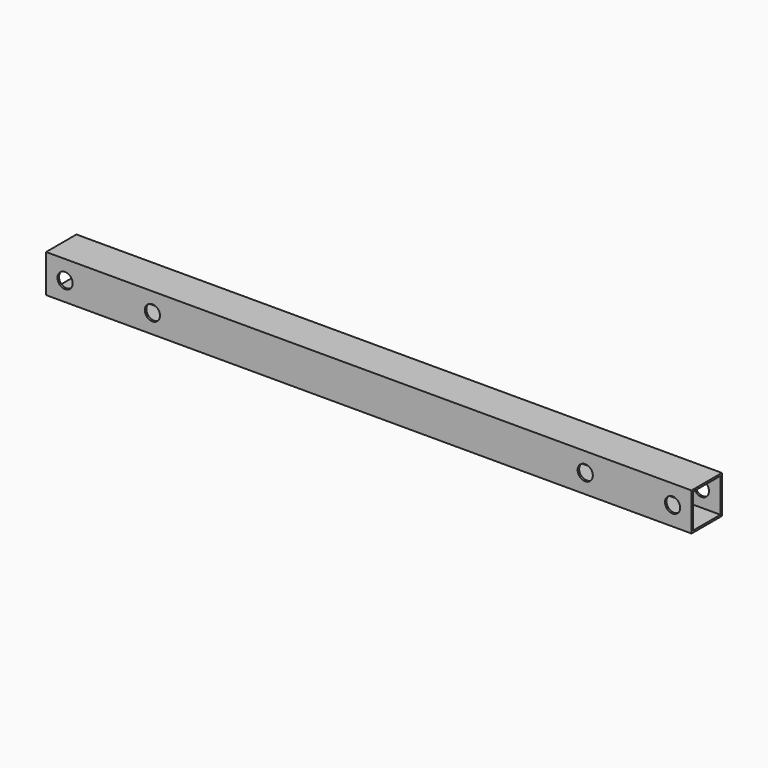
from build123d import *

# Parameters (mm, degrees)
F0_W     = 100
F0_H     = 100
F0_W_2   = 90
F0_H_2   = 90
F1_DEPTH = 1700
F2_R     = 20
F3_DEPTH = 50


with BuildPart() as f1:
    # F0 (on Right) → F1 (new body)
    with BuildSketch(Plane.YZ):
        Rectangle(F0_W, F0_H)
        Rectangle(F0_W_2, F0_H_2, mode=Mode.SUBTRACT)
    extrude(amount=F1_DEPTH)

    # F2 (on Front) → F3 (cut, symmetric)
    with BuildSketch(Plane.XZ):
        with Locations((50, 0)):
            Circle(F2_R)
        with Locations((1650, 0)):
            Circle(F2_R)
        with Locations((280, 0)):
            Circle(F2_R)
        with Locations((1420, 0)):
            Circle(F2_R)
    extrude(amount=F3_DEPTH, both=True, mode=Mode.SUBTRACT)


solid = f1.part
